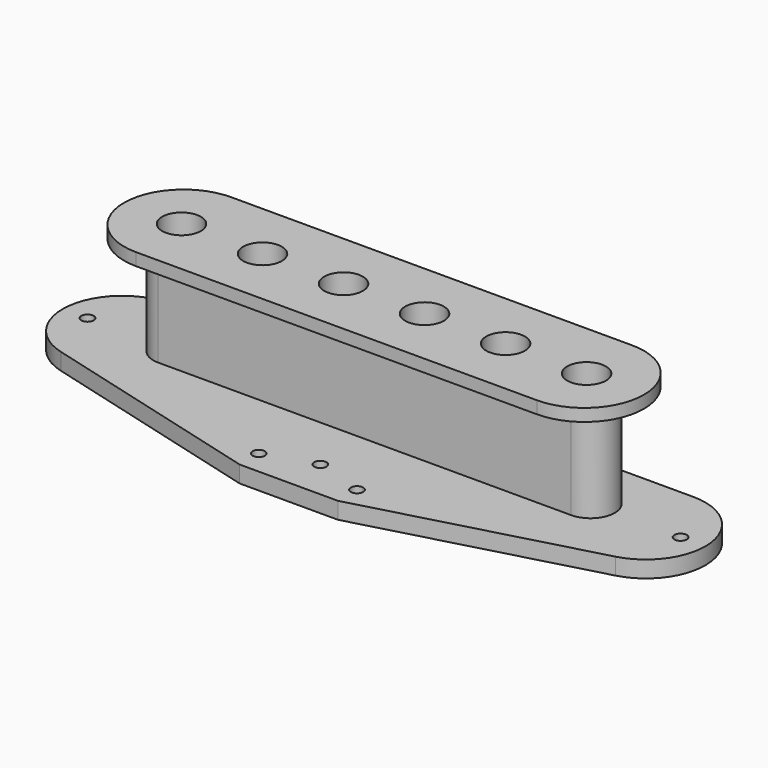
from build123d import *

# Parameters (mm, degrees)
F1_DEPTH  = 1.6002
F4_DEPTH  = 2.159
F6_DEPTH  = 13.081
F7_R      = 2.5019
F8_DEPTH  = 16.8412
F9_R      = 0.8001
F9_R_2    = 0.79375
F10_DEPTH = 16.8412


with BuildPart() as f1:
    # F0 (on Top) → F1 (new body)
    with BuildSketch(Plane.XY):
        with BuildLine():
            Line((1.433722, 7.6962), (-1.433722, 7.6962))
            Line((-1.433722, 7.6962), (-25.9207, 7.6962))
            ThreePointArc((-25.9207, 7.6962), (-33.6169, 0), (-25.9207, -7.6962))
            Line((-25.9207, -7.6962), (-1.433722, -7.6962))
            Line((-1.433722, -7.6962), (1.433722, -7.6962))
            Line((1.433722, -7.6962), (25.9207, -7.6962))
            ThreePointArc((25.9207, -7.6962), (33.6169, 0), (25.9207, 7.6962))
            Line((25.9207, 7.6962), (1.433722, 7.6962))
        make_face()
    extrude(amount=F1_DEPTH)



with BuildPart() as f4:
    # F3 (on offset) → F4 (new body)
    with BuildSketch(Plane.XY.offset(-13.081)):
        with BuildLine():
            Line((-35.865766, -7.429749), (-6.35, -15.4051))
            Line((-6.35, -15.4051), (6.35, -15.4051))
            Line((6.35, -15.4051), (35.865766, -7.429749))
            ThreePointArc((35.865766, -7.429749), (41.487496, 1.012586), (33.8582, 7.6962))
            Line((33.8582, 7.6962), (0, 7.6962))
            Line((0, 7.6962), (-33.8582, 7.6962))
            ThreePointArc((-33.8582, 7.6962), (-41.487496, 1.012586), (-35.865766, -7.429749))
        make_face()
    extrude(amount=-F4_DEPTH)


with BuildPart() as f1_1:
    add(f1.part)

    add(f4.part)  # F6 merges F4
    # F5 (on face) → F6 (join, through all)
    with BuildSketch(Plane(origin=(0, 0, 0), x_dir=(1, 0, 0), z_dir=(0, 0, -1))):
        with BuildLine():
            Line((0, -3.1369), (26.7081, -3.1369))
            ThreePointArc((26.7081, -3.1369), (29.845, 0), (26.7081, 3.1369))
            Line((26.7081, 3.1369), (0, 3.1369))
            Line((0, 3.1369), (-26.7081, 3.1369))
            ThreePointArc((-26.7081, 3.1369), (-29.845, 0), (-26.7081, -3.1369))
            Line((-26.7081, -3.1369), (0, -3.1369))
        make_face()
    extrude(amount=F6_DEPTH)

    # F7 (on face) → F8 (cut, through all)
    with BuildSketch(Plane.XY.offset(1.6002)):
        with Locations((-5.23875, 0)):
            Circle(F7_R)
        with Locations((-15.71625, 0)):
            Circle(F7_R)
        with Locations((-26.19375, 0)):
            Circle(F7_R)
        with Locations((5.23875, 0)):
            Circle(F7_R)
        with Locations((15.71625, 0)):
            Circle(F7_R)
        with Locations((26.19375, 0)):
            Circle(F7_R)
    extrude(amount=-F8_DEPTH, mode=Mode.SUBTRACT)

    # F9 (on face) → F10 (cut, through all)
    with BuildSketch(Plane(origin=(0, 0, -15.24), x_dir=(1, 0, 0), z_dir=(0, 0, -1))):
        with Locations((38.354, 0)):
            Circle(F9_R)
        with Locations((-38.354, 0)):
            Circle(F9_R)
        with Locations((-6.35, 12.309221)):
            Circle(F9_R_2)
        with Locations((0, 10.297953)):
            Circle(F9_R_2)
        with Locations((6.35, 12.309221)):
            Circle(F9_R_2)
    extrude(amount=-F10_DEPTH, mode=Mode.SUBTRACT)


solid = f1_1.part
